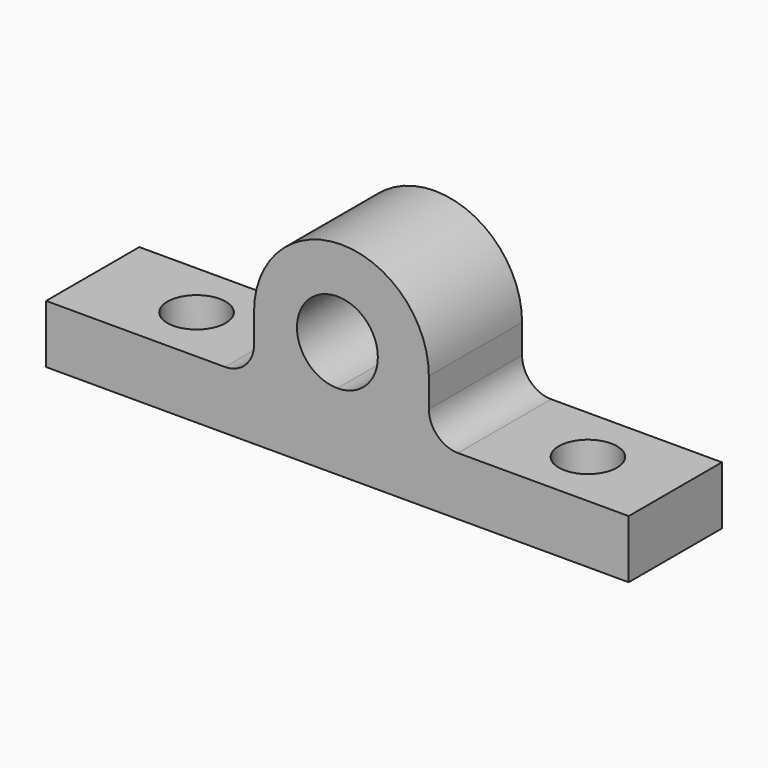
from build123d import *

# Parameters (mm, degrees)
F1_DEPTH = 25.4
F2_R     = 6.35
F3_DEPTH = 25.4


with BuildPart() as f1:
    # F0 (on Front) → F1 (new body)
    with BuildSketch(Plane.XZ):
        with BuildLine():
            Line((16.349689, 8.67111), (-22.636251, 8.67111))
            Line((-22.636251, 8.67111), (-22.636251, -4.02889))
            Line((-22.636251, -4.02889), (40.863749, -4.02889))
            Line((40.863749, -4.02889), (104.363749, -4.02889))
            Line((104.363749, -4.02889), (104.363749, 8.67111))
            Line((104.363749, 8.67111), (67.149689, 8.67111))
            ThreePointArc((67.149689, 8.67111), (62.659561, 10.530982), (60.799689, 15.02111))
            Line((60.799689, 15.02111), (60.799689, 21.37111))
            ThreePointArc((60.799689, 21.37111), (41.749689, 40.42111), (22.699689, 21.37111))
            Line((22.699689, 21.37111), (22.699689, 15.02111))
            ThreePointArc((22.699689, 15.02111), (20.839818, 10.530982), (16.349689, 8.67111))
        make_face()
        with BuildLine():
            ThreePointArc((49.68147, 21.37111), (47.098819, 15.13604), (40.863749, 12.553389))
            ThreePointArc((40.863749, 12.553389), (34.628679, 27.60618), (49.68147, 21.37111))
        make_face(mode=Mode.SUBTRACT)
    extrude(amount=F1_DEPTH)

    # F2 (on face) → F3 (cut)
    with BuildSketch(Plane.XY.offset(8.67111)):
        with Locations((0, -12.7)):
            Circle(F2_R)
        with Locations((85.313749, -12.7)):
            Circle(F2_R)
    extrude(amount=-F3_DEPTH, mode=Mode.SUBTRACT)


solid = f1.part
